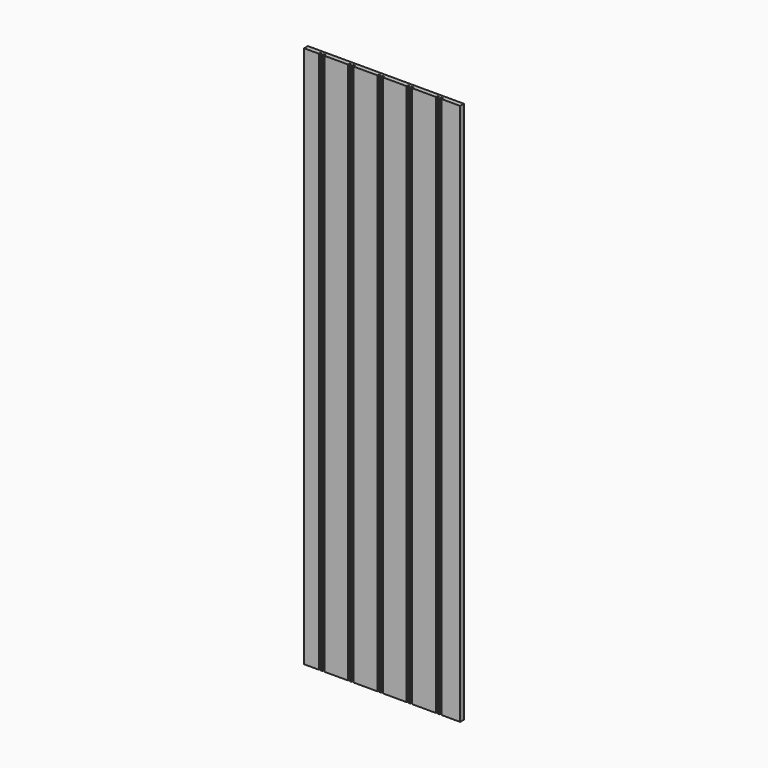
from build123d import *

# Parameters (mm, degrees)
F0_W     = 270.3576
F0_H     = 939.8
F1_DEPTH = 8.1788
F2_W     = 3.175
F2_H     = 3.175
F3_DEPTH = 939.801


with BuildPart() as f1:
    # F0 (on Front) → F1 (new body)
    with BuildSketch(Plane.XZ):
        Rectangle(F0_W, F0_H)
    extrude(amount=F1_DEPTH)

    # F2 (on face) → F3 (cut, through all)
    with BuildSketch(Plane.XY.offset(469.9)):
        with Locations((-108.1913, -6.5913)):
            Rectangle(F2_W, F2_H)
        with Locations((-101.8413, -6.5913)):
            Rectangle(F2_W, F2_H)
        with Locations((-57.3913, -6.5913)):
            Rectangle(F2_W, F2_H)
        with Locations((-51.0413, -6.5913)):
            Rectangle(F2_W, F2_H)
        with Locations((-6.5913, -6.5913)):
            Rectangle(F2_W, F2_H)
        with Locations((-0.2413, -6.5913)):
            Rectangle(F2_W, F2_H)
        with Locations((44.2087, -6.5913)):
            Rectangle(F2_W, F2_H)
        with Locations((50.5587, -6.5913)):
            Rectangle(F2_W, F2_H)
        with Locations((95.0087, -6.5913)):
            Rectangle(F2_W, F2_H)
        with Locations((101.3587, -6.5913)):
            Rectangle(F2_W, F2_H)
    extrude(amount=-F3_DEPTH, mode=Mode.SUBTRACT)


solid = f1.part
